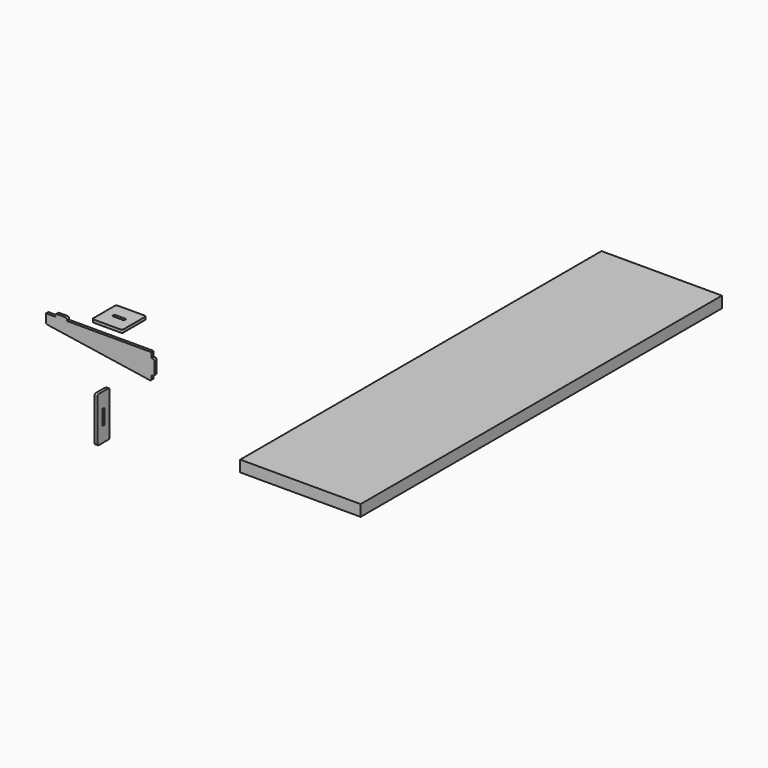
from build123d import *

# Parameters (mm, degrees)
F0_W     = 38.1
F0_H     = 9.525
F0_W_2   = 9.525
F0_H_2   = 50.8
F1_DEPTH = 9.525
F2_R     = 4.7625
F3_W     = 101.6
F3_H     = 101.6
F3_W_2   = 39.37
F3_H_2   = 9.652
F4_DEPTH = 9.525
F5_R     = 4.7625
F6_W     = 406.4
F6_H     = 1524
F7_DEPTH = 38.1
F8_W     = 50.8
F8_H     = 152.4
F8_W_2   = 9.652
F8_H_2   = 50.927
F9_DEPTH = 9.525
F10_R    = 5.08


with BuildPart() as f1:
    # F0 (on Front) → F1 (new body)
    with BuildSketch(Plane.XZ):
        Polygon((0, -17.4625), (0, 0), (-285.75, 0), (-323.85, 0), (-355.6, 0), (-355.6, -31.75), (0, -85.725), (0, -68.2625), align=None)
        with Locations((-304.8, 4.7625)):
            Rectangle(F0_W, F0_H)
        with Locations((4.7625, -42.8625)):
            Rectangle(F0_W_2, F0_H_2)
    extrude(amount=F1_DEPTH)

    # F2
    f2_edges = [f1.edges().sort_by_distance(p)[0] for p in [
        (-355.6, -4.7625, -31.75),
        (-323.85, -4.7625, 9.525),
        (-285.75, -4.7625, 9.525),
        (0, -4.7625, -85.725),
        (9.525, -4.7625, -17.4625),
        (9.525, -4.7625, -68.2625),
    ]]
    fillet(f2_edges, radius=F2_R)


with BuildPart() as f4:
    # F3 (on Top) → F4 (new body)
    with BuildSketch(Plane.XY):
        with Locations((-178.714195, 77.665811)):
            Rectangle(F3_W, F3_H)
        with Locations((-178.714195, 77.665811)):
            Rectangle(F3_W_2, F3_H_2, mode=Mode.SUBTRACT)
    extrude(amount=F4_DEPTH)

    # F5
    f5_edges = [f4.edges().sort_by_distance(p)[0] for p in [
        (-229.514195, 26.865811, 4.7625),
        (-229.514195, 128.465811, 4.7625),
        (-127.914195, 26.865811, 4.7625),
        (-127.914195, 128.465811, 4.7625),
    ]]
    fillet(f5_edges, radius=F5_R)


with BuildPart() as f7:
    # F6 (on Top) → F7 (new body)
    with BuildSketch(Plane.XY):
        with Locations((814.403134, 362.947022)):
            Rectangle(F6_W, F6_H)
    extrude(amount=F7_DEPTH)


with BuildPart() as f9:
    # F8 (on Right) → F9 (new body)
    with BuildSketch(Plane.YZ):
        with Locations((-223.874624, -101.731093)):
            Rectangle(F8_W, F8_H)
        with Locations((-223.874624, -101.731093)):
            Rectangle(F8_W_2, F8_H_2, mode=Mode.SUBTRACT)
    extrude(amount=F9_DEPTH)

    # F10
    f10_edges = [f9.edges().sort_by_distance(p)[0] for p in [
        (4.7625, -249.274624, -25.531093),
        (4.7625, -249.274624, -177.931093),
        (4.7625, -198.474624, -177.931093),
        (4.7625, -198.474624, -25.531093),
    ]]
    fillet(f10_edges, radius=F10_R)


solid = Compound([f1.part, f4.part, f7.part, f9.part])
